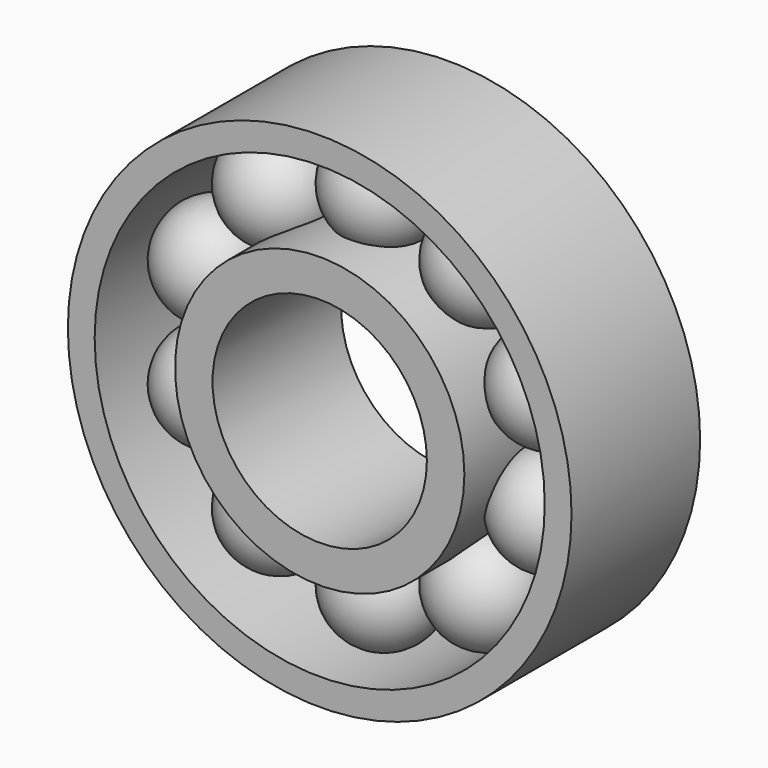
from build123d import *

# Parameters (mm, degrees)
F0_R     = 23.5
F0_R_2   = 21
F1_DEPTH = 15
F0_R_3   = 13.5
F0_R_4   = 10
F2_DEPTH = 15
F6_COUNT = 10


with BuildPart() as f1:
    # F0 (on Front) → F1 (new body)
    with BuildSketch(Plane.XZ):
        Circle(F0_R)
        Circle(F0_R_2, mode=Mode.SUBTRACT)
    extrude(amount=F1_DEPTH)


with BuildPart() as f2:
    # F0 (on Front) → F2 (new body)
    with BuildSketch(Plane.XZ):
        Circle(F0_R_3)
        Circle(F0_R_4, mode=Mode.SUBTRACT)
    extrude(amount=F2_DEPTH)


with BuildPart() as f5:
    # F4 (on offset) → F5 (revolve)
    with BuildSketch(Plane.XZ.offset(7.5)):
        with BuildLine():
            Line((0, 21.464829), (0, 11.464829))
            ThreePointArc((0, 11.464829), (5, 16.464829), (0, 21.464829))
        make_face()
    revolve(axis=Axis((0, -7.5, 16.464829), (0, 0, -1)))


with BuildPart() as f6_1:
    # F6: instance of F5
    add(f5.part.rotate(Axis((0, -15, 0), (0, -1, 0)), 1 * 360 / F6_COUNT))


with BuildPart() as f6_2:
    # F6: instance of F5
    add(f5.part.rotate(Axis((0, -15, 0), (0, -1, 0)), 2 * 360 / F6_COUNT))


with BuildPart() as f6_3:
    # F6: instance of F5
    add(f5.part.rotate(Axis((0, -15, 0), (0, -1, 0)), 3 * 360 / F6_COUNT))


with BuildPart() as f6_4:
    # F6: instance of F5
    add(f5.part.rotate(Axis((0, -15, 0), (0, -1, 0)), 4 * 360 / F6_COUNT))


with BuildPart() as f6_5:
    # F6: instance of F5
    add(f5.part.rotate(Axis((0, -15, 0), (0, -1, 0)), 5 * 360 / F6_COUNT))


with BuildPart() as f6_6:
    # F6: instance of F5
    add(f5.part.rotate(Axis((0, -15, 0), (0, -1, 0)), 6 * 360 / F6_COUNT))


with BuildPart() as f6_7:
    # F6: instance of F5
    add(f5.part.rotate(Axis((0, -15, 0), (0, -1, 0)), 7 * 360 / F6_COUNT))


with BuildPart() as f6_8:
    # F6: instance of F5
    add(f5.part.rotate(Axis((0, -15, 0), (0, -1, 0)), 8 * 360 / F6_COUNT))


with BuildPart() as f6_9:
    # F6: instance of F5
    add(f5.part.rotate(Axis((0, -15, 0), (0, -1, 0)), 9 * 360 / F6_COUNT))


solid = Compound([f1.part, f2.part, f5.part, f6_1.part, f6_2.part, f6_3.part, f6_4.part, f6_5.part, f6_6.part, f6_7.part, f6_8.part, f6_9.part])
